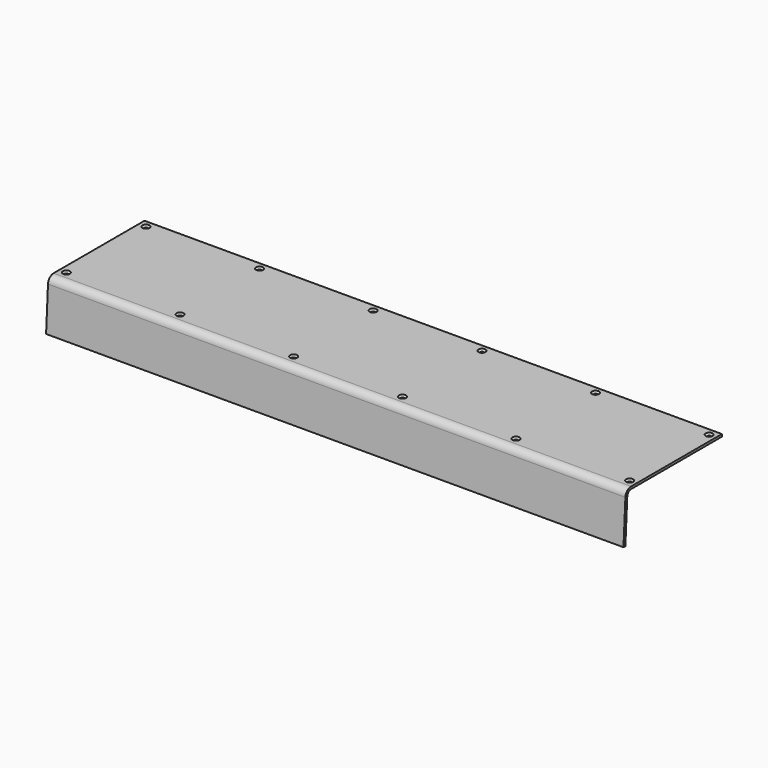
from build123d import *

# Parameters (mm, degrees)
F1_DEPTH       = 1549.4
F3_D           = 10.5664
F3_DEPTH       = 406.4
F3_CSINK_D     = 19.05
F3_CSINK_ANGLE = 82


with BuildPart() as f1:
    # F0 (on Right) → F1 (new body)
    with BuildSketch(Plane.YZ):
        with BuildLine():
            ThreePointArc((0, 3.175), (-13.09321, -2.037719), (-19.020937, -14.823125))
            Line((-19.020937, -14.823125), (-25.4, -130.175))
            Line((-25.4, -130.175), (-22.220149, -130.175))
            Line((-22.220149, -130.175), (-19.040298, -130.175))
            Line((-19.040298, -130.175), (-12.680625, -15.17375))
            ThreePointArc((-12.680625, -15.17375), (-8.728806, -6.650146), (0, -3.175))
            Line((0, -3.175), (304.8, -3.175))
            Line((304.8, -3.175), (304.8, 0))
            Line((304.8, 0), (304.8, 3.175))
            Line((304.8, 3.175), (0, 3.175))
        make_face()
    extrude(amount=F1_DEPTH)

    # F3
    with Locations(Plane.XY.offset(3.175)):
        with Locations((1530.35, 285.75), (1530.35, 19.05), (1225.55, 19.05), (1225.55, 285.75), (920.75, 285.75), (920.75, 19.05), (628.65, 285.75), (628.65, 19.05), (323.85, 19.05), (323.85, 285.75), (19.05, 285.75), (19.05, 19.05)):
            CounterSinkHole(F3_D / 2, F3_CSINK_D / 2, depth=F3_DEPTH, counter_sink_angle=F3_CSINK_ANGLE)


solid = f1.part
